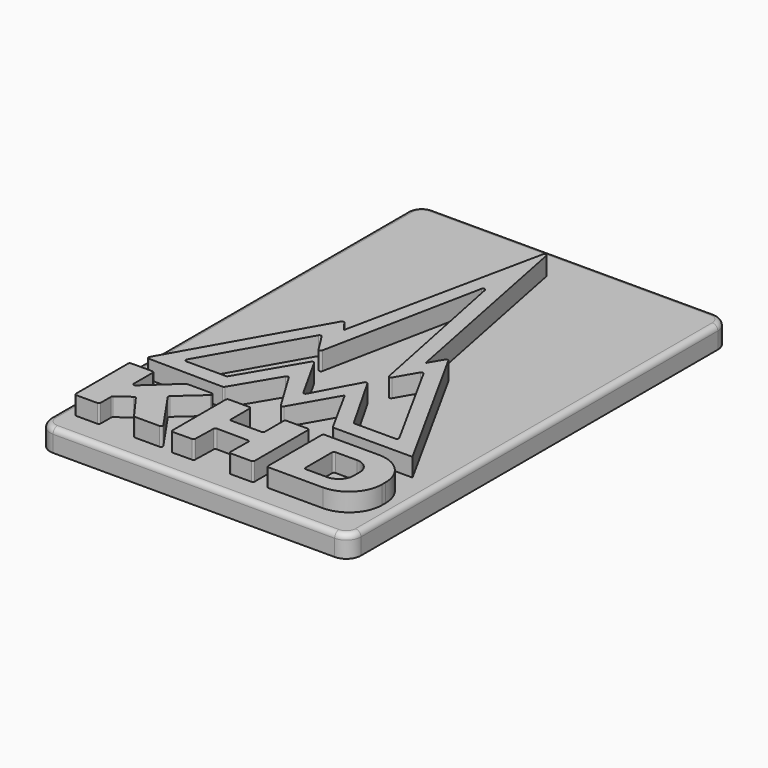
from build123d import *

# Parameters (mm, degrees)
F0_W     = 24.341667
F0_H     = 19.226389
F0_W_2   = 10.348033
F0_H_2   = 10.113077
F1_DEPTH = 5
F2_R     = 4
F3_R     = 9
F4_R     = 0.5
F5_W     = 85
F5_H     = 130
F6_DEPTH = 6
F7_R     = 4
F8_R     = 1.5


with BuildPart() as f1:
    # F0 (on Top) → F1 (new body)
    with BuildSketch(Plane.XY):
        Polygon((-31.867478, -38.717533), (-38.629167, -38.717533), (-38.629167, -57.532578), (-31.867478, -57.532578), (-31.867478, -53.181422), (-27.693055, -50.182811), (-22.342478, -57.532578), (-14.404978, -57.532578), (-22.577778, -45.655611), (-14.816667, -38.717533), (-23.048033, -38.717533), (-31.867478, -46.831422), align=None)
        Polygon((-5.350405, -38.717533), (-11.935533, -38.717533), (-11.935533, -57.943922), (-5.703183, -57.885356), (-5.526794, -50.8298), (4.027317, -50.91765), (3.939467, -57.943922), (10.583333, -57.943922), (10.583333, -38.717533), (3.880556, -38.717533), (3.880556, -46.0673), (-5.350405, -46.0673), align=None)
        Polygon((-14.875405, 5.085994), (-37.394272, -34.660244), (-15.933567, -34.954111), (-8.231367, -22.077722), (-0.6761, -34.601333), (6.702778, -21.783856), (13.934722, -34.954111), (35.748378, -34.954111), (13.523378, 5.321639), (10.818633, 0.708828), (-0.528994, 57.943922), (-12.347222, 1.704805), align=None)
        Polygon((-18.403183, -30.661178), (-30.456539, -30.661178), (-14.640278, -2.850644), (-10.289294, -9.729811), (-0.823033, 37.366022), (8.760533, -10.1415), (13.111689, -2.615344), (28.516089, -30.661178), (16.227778, -30.661178), (6.5853, -13.669278), (-0.587905, -27.074489), (-8.231539, -13.375066), align=None, mode=Mode.SUBTRACT)
        with Locations((26.458333, -48.330727)):
            Rectangle(F0_W, F0_H)
        with Locations((26.223205, -48.594794)):
            Rectangle(F0_W_2, F0_H_2, mode=Mode.SUBTRACT)
    extrude(amount=F1_DEPTH)

    # F2
    f2_edges = [f1.edges().sort_by_distance(p)[0] for p in [
        (31.397222, -43.538256, 2.5),
        (31.397222, -53.651333, 2.5),
    ]]
    fillet(f2_edges, radius=F2_R)

    # F3
    f3_edges = [f1.edges().sort_by_distance(p)[0] for p in [
        (38.629167, -57.943922, 2.5),
        (38.629167, -38.717533, 2.5),
    ]]
    fillet(f3_edges, radius=F3_R)

    # F4
    f4_edges = [f1.edges().sort_by_distance(p)[0] for p in [
        (-38.629167, -38.717533, 2.5),
        (-31.867478, -38.717533, 2.5),
        (-23.048033, -38.717533, 2.5),
        (-14.816667, -38.717533, 2.5),
        (-31.867478, -46.831422, 2.5),
        (-22.577778, -45.655611, 2.5),
        (-14.404978, -57.532578, 2.5),
        (-22.342478, -57.532578, 2.5),
        (-27.693055, -50.182811, 2.5),
        (-31.867478, -53.181422, 2.5),
        (-31.867478, -57.532578, 2.5),
        (-38.629167, -57.532578, 2.5),
        (-11.935533, -57.943922, 2.5),
        (-5.703183, -57.885356, 2.5),
        (4.027317, -50.91765, 2.5),
        (3.939467, -57.943922, 2.5),
        (10.583333, -57.943922, 2.5),
        (14.2875, -57.943922, 2.5),
        (14.2875, -38.717533, 2.5),
        (13.934722, -34.954111, 2.5),
        (-0.6761, -34.601333, 2.5),
        (-37.394272, -34.660244, 2.5),
        (-15.933567, -34.954111, 2.5),
        (-8.231367, -22.077722, 2.5),
        (-5.526794, -50.8298, 2.5),
        (21.049189, -53.651333, 2.5),
        (21.049189, -43.538256, 2.5),
        (10.583333, -38.717533, 2.5),
        (-5.350405, -38.717533, 2.5),
        (-5.350405, -46.0673, 2.5),
        (-11.935533, -38.717533, 2.5),
        (3.880556, -46.0673, 2.5),
        (-0.587905, -27.074489, 2.5),
        (6.5853, -13.669278, 2.5),
        (16.227778, -30.661178, 2.5),
        (-8.231539, -13.375066, 2.5),
        (-18.403183, -30.661178, 2.5),
        (-30.456539, -30.661178, 2.5),
        (-14.875405, 5.085994, 2.5),
        (-10.289294, -9.729811, 2.5),
        (8.760533, -10.1415, 2.5),
        (28.516089, -30.661178, 2.5),
        (13.111689, -2.615344, 2.5),
        (13.523378, 5.321639, 2.5),
        (-0.823033, 37.366022, 2.5),
        (-0.528994, 57.943922, 2.5),
        (-14.640278, -2.850644, 2.5),
    ]]
    fillet(f4_edges, radius=F4_R)

    # F5 (on face) → F6 (join)
    with BuildSketch(Plane(origin=(0, 0, 0), x_dir=(1, 0, 0), z_dir=(0, 0, -1))):
        Rectangle(F5_W, F5_H)
    extrude(amount=F6_DEPTH)

    # F7
    f7_edges = [f1.edges().sort_by_distance(p)[0] for p in [
        (42.5, -65, -3),
        (42.5, 65, -3),
        (-42.5, 65, -3),
        (-42.5, -65, -3),
    ]]
    fillet(f7_edges, radius=F7_R)

    # F8
    f8_edges = [f1.edges().sort_by_distance(p)[0] for p in [
        (0, -65, 0),
    ]]
    fillet(f8_edges, radius=F8_R)


solid = f1.part
